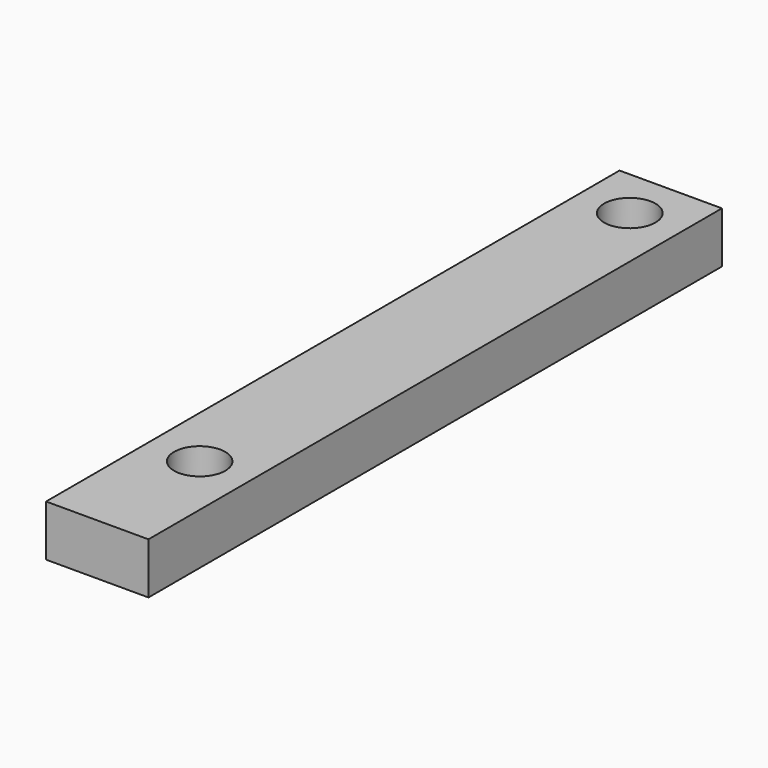
from build123d import *

# Parameters (mm, degrees)
F0_W     = 12.7
F0_H     = 88.9
F0_R     = 3.175
F0_R_2   = 3.1877
F1_DEPTH = 6.35


with BuildPart() as f1:
    # F0 (on Top) → F1 (new body)
    with BuildSketch(Plane.XY):
        Rectangle(F0_W, F0_H)
        with Locations((0, -28.575)):
            Circle(F0_R, mode=Mode.SUBTRACT)
        with Locations((0, 38.1)):
            Circle(F0_R_2, mode=Mode.SUBTRACT)
    extrude(amount=F1_DEPTH)


solid = f1.part
